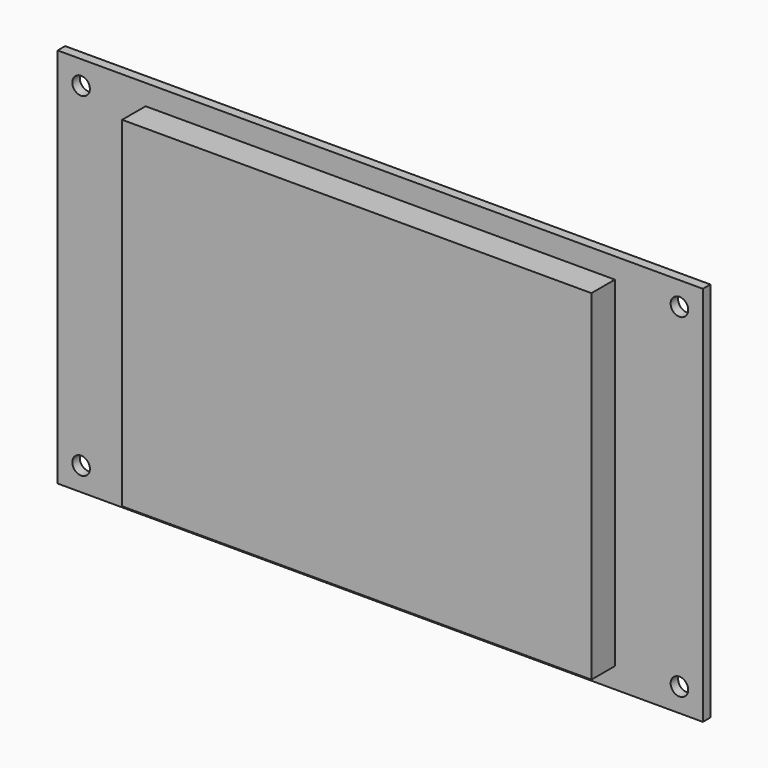
from build123d import *

# Parameters (mm, degrees)
F0_W     = 110
F0_H     = 65
F0_R     = 1.5
F1_DEPTH = 1.6
F2_W     = 80
F2_H     = 58
F3_DEPTH = 5


with BuildPart() as f1:
    # F0 (on Front) → F1 (new body)
    with BuildSketch(Plane.XZ):
        with Locations((55, 32.5)):
            Rectangle(F0_W, F0_H)
        with Locations((4, 4)):
            Circle(F0_R, mode=Mode.SUBTRACT)
        with Locations((106, 4)):
            Circle(F0_R, mode=Mode.SUBTRACT)
        with Locations((4, 61)):
            Circle(F0_R, mode=Mode.SUBTRACT)
        with Locations((106, 61)):
            Circle(F0_R, mode=Mode.SUBTRACT)
    extrude(amount=F1_DEPTH)

    # F2 (on face) → F3 (join)
    with BuildSketch(Plane.XZ.offset(1.6)):
        with Locations((55, 32.5)):
            Rectangle(F2_W, F2_H)
    extrude(amount=F3_DEPTH)


solid = f1.part
